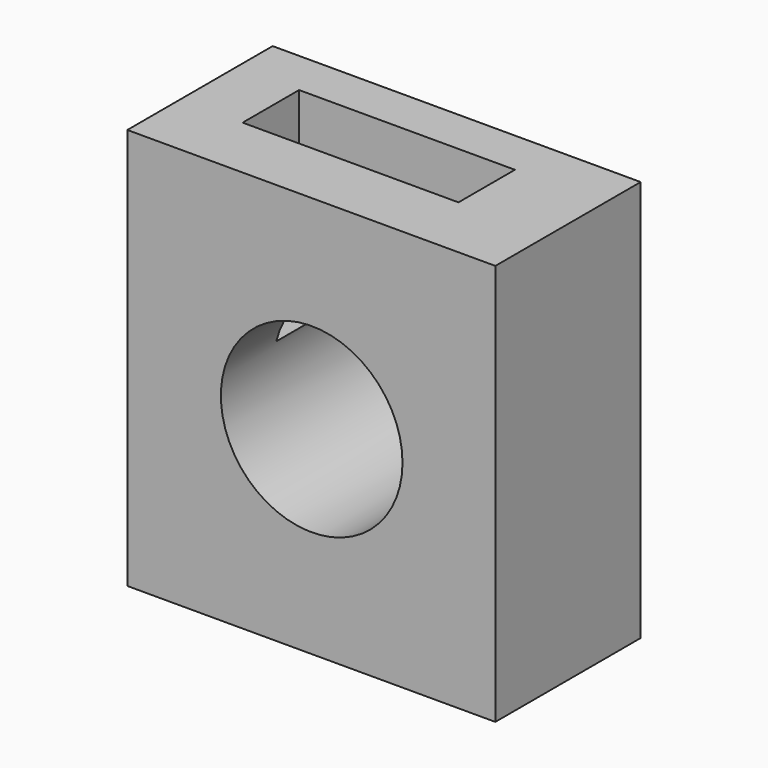
from build123d import *

# Parameters (mm, degrees)
F0_W     = 51.462281
F0_H     = 56.140669
F1_DEPTH = 25.4
F2_R     = 12.7
F3_DEPTH = 25.4
F4_W     = 30.184469
F4_H     = 9.87075
F5_DEPTH = 25.4


with BuildPart() as f1:
    # F0 (on Front) → F1 (new body)
    with BuildSketch(Plane.XZ):
        with Locations((25.73114, 28.070334)):
            Rectangle(F0_W, F0_H)
    extrude(amount=F1_DEPTH)

    # F2 (on face) → F3 (cut)
    with BuildSketch(Plane.XZ.offset(25.4)):
        with Locations((25.77888, 27.688427)):
            Circle(F2_R)
    extrude(amount=-F3_DEPTH, mode=Mode.SUBTRACT)

    # F4 (on face) → F5 (cut)
    with BuildSketch(Plane.XY.offset(56.140669)):
        with Locations((23.83924, -11.24981)):
            Rectangle(F4_W, F4_H)
    extrude(amount=-F5_DEPTH, mode=Mode.SUBTRACT)


solid = f1.part
